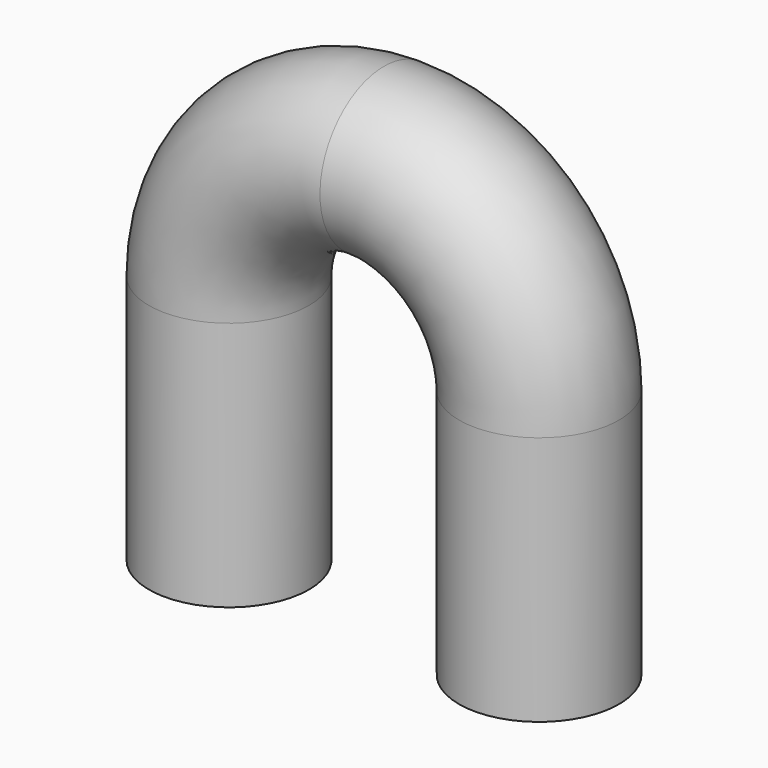
from build123d import *

# Parameters (mm, degrees)
F1_R   = 8
F1_R_2 = 6


with BuildPart() as f2:
    # F2: sweep along a path in F0
    with BuildLine(Plane.XZ) as f2_path:
        Line((-15.5, 0), (-15.5, 25))
        ThreePointArc((-15.5, 25), (-10.960155, 35.960155), (0, 40.5))
        ThreePointArc((0, 40.5), (10.960155, 35.960155), (15.5, 25))
        Line((15.5, 25), (15.5, 0))
    # F1 (on Top) → F2 (sweep)
    with BuildSketch(Plane.XY):
        with Locations((-15.5, 0)):
            Circle(F1_R)
        with Locations((-15.5, 0)):
            Circle(F1_R_2, mode=Mode.SUBTRACT)
    sweep(path=f2_path.line)


solid = f2.part
